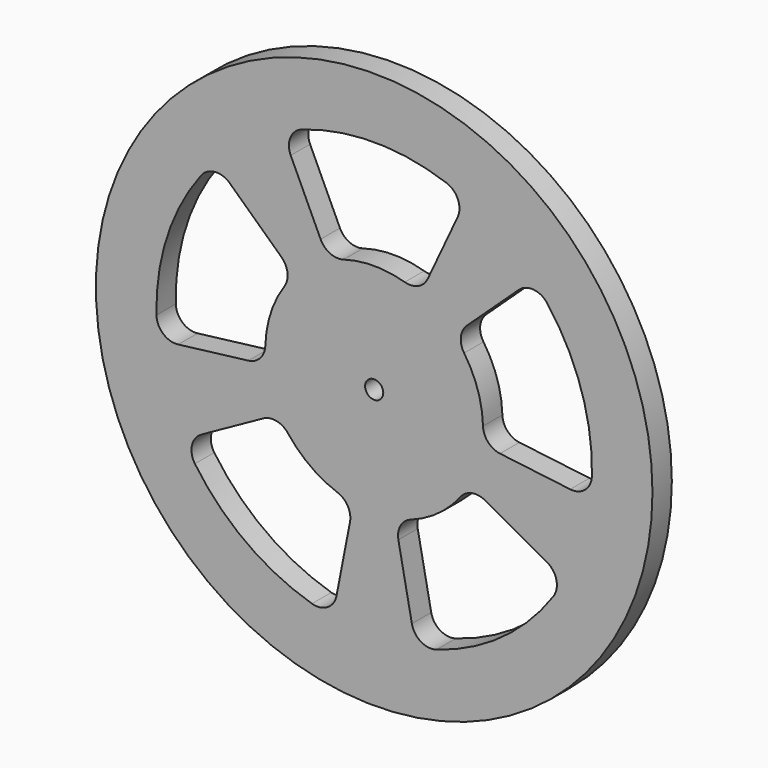
from build123d import *

# Parameters (mm, degrees)
F0_R     = 73.025
F0_R_2   = 2.38125
F1_DEPTH = 6.35
F2_R     = 5.08


with BuildPart() as f1:
    # F0 (on Front) → F1 (new body)
    with BuildSketch(Plane.XZ):
        Circle(F0_R)
        with BuildLine():
            Line((-49.984516, -27.70687), (-24.992258, -13.853435))
            ThreePointArc((-24.992258, -13.853435), (-16.795964, -23.117661), (-5.452367, -28.049997))
            Line((-5.452367, -28.049997), (-10.904734, -56.099994))
            ThreePointArc((-10.904734, -56.099994), (-33.591927, -46.235321), (-49.984516, -27.70687))
        make_face(mode=Mode.SUBTRACT)
        with BuildLine():
            Line((24.992258, -13.853435), (49.984516, -27.70687))
            ThreePointArc((49.984516, -27.70687), (33.591927, -46.235321), (10.904734, -56.099994))
            Line((10.904734, -56.099994), (5.452367, -28.049997))
            ThreePointArc((5.452367, -28.049997), (16.795964, -23.117661), (24.992258, -13.853435))
        make_face(mode=Mode.SUBTRACT)
        with BuildLine():
            Line((-41.796864, 38.976206), (-20.898432, 19.488103))
            ThreePointArc((-20.898432, 19.488103), (-27.17644, 8.830161), (-28.362006, -3.482416))
            Line((-28.362006, -3.482416), (-56.724013, -6.964833))
            ThreePointArc((-56.724013, -6.964833), (-54.35288, 17.660321), (-41.796864, 38.976206))
        make_face(mode=Mode.SUBTRACT)
        Circle(F0_R_2, mode=Mode.SUBTRACT)
        with BuildLine():
            Line((20.898432, 19.488103), (41.796864, 38.976206))
            ThreePointArc((41.796864, 38.976206), (54.35288, 17.660321), (56.724013, -6.964833))
            Line((56.724013, -6.964833), (28.362006, -3.482416))
            ThreePointArc((28.362006, -3.482416), (27.17644, 8.830161), (20.898432, 19.488103))
        make_face(mode=Mode.SUBTRACT)
        with BuildLine():
            ThreePointArc((-24.152634, 51.79549), (0, 57.15), (24.152634, 51.79549))
            Line((24.152634, 51.79549), (12.076317, 25.897745))
            ThreePointArc((12.076317, 25.897745), (0, 28.575), (-12.076317, 25.897745))
            Line((-12.076317, 25.897745), (-24.152634, 51.79549))
        make_face(mode=Mode.SUBTRACT)
    extrude(amount=F1_DEPTH)

    # F2
    f2_edges = [f1.edges().sort_by_distance(p)[0] for p in [
        (12.076317, -3.175, 25.897745),
        (-12.076317, -3.175, 25.897745),
        (-20.898432, -3.175, 19.488103),
        (-28.362006, -3.175, -3.482416),
        (-24.992258, -3.175, -13.853435),
        (-5.452367, -3.175, -28.049997),
        (5.452367, -3.175, -28.049997),
        (24.992258, -3.175, -13.853435),
        (28.362006, -3.175, -3.482416),
        (20.898432, -3.175, 19.488103),
        (-24.152634, -3.175, 51.79549),
        (-41.796864, -3.175, 38.976206),
        (-56.724013, -3.175, -6.964833),
        (-49.984516, -3.175, -27.70687),
        (-10.904734, -3.175, -56.099994),
        (10.904734, -3.175, -56.099994),
        (49.984516, -3.175, -27.70687),
        (56.724013, -3.175, -6.964833),
        (41.796864, -3.175, 38.976206),
        (24.152634, -3.175, 51.79549),
    ]]
    fillet(f2_edges, radius=F2_R)


solid = f1.part
